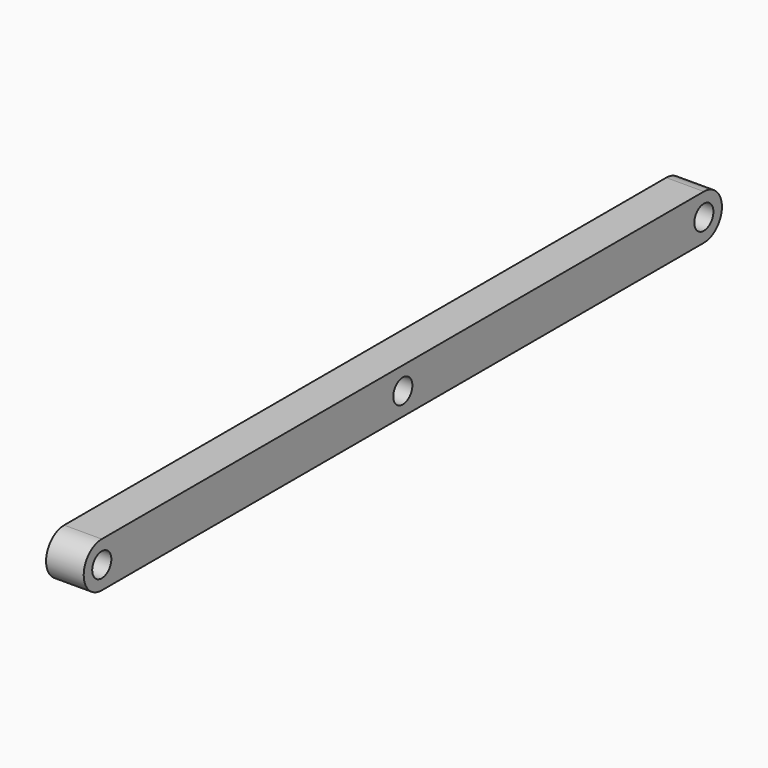
from build123d import *

# Parameters (mm, degrees)
F0_R     = 3.175
F1_DEPTH = 10


with BuildPart() as f1:
    # F0 (on Right) → F1 (new body)
    with BuildSketch(Plane.YZ):
        with BuildLine():
            Line((100, 6), (-100, 6))
            ThreePointArc((-100, 6), (-106, 0), (-100, -6))
            Line((-100, -6), (100, -6))
            ThreePointArc((100, -6), (106, 0), (100, 6))
        make_face()
        with Locations((-100, 0)):
            Circle(F0_R, mode=Mode.SUBTRACT)
        Circle(F0_R, mode=Mode.SUBTRACT)
        with Locations((100, 0)):
            Circle(F0_R, mode=Mode.SUBTRACT)
    extrude(amount=F1_DEPTH)


solid = f1.part
